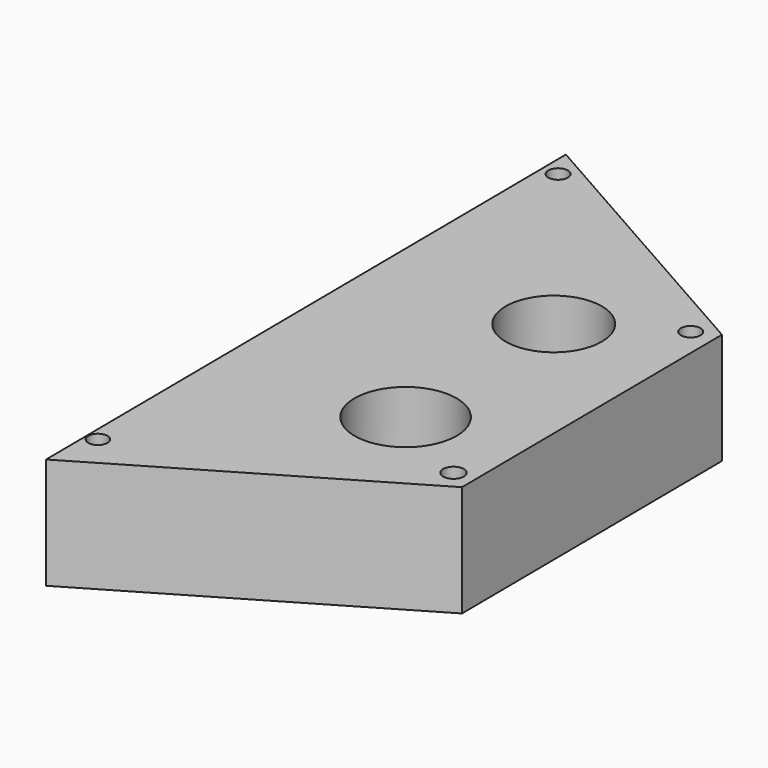
from build123d import *

# Parameters (mm, degrees)
F0_R     = 1.096214
F0_R_2   = 5.824912
F0_R_3   = 1.180333
F0_R_4   = 1.117938
F0_R_5   = 5.484301
F1_DEPTH = 12.7


with BuildPart() as f1:
    # F0 (on Top) → F1 (new body)
    with BuildSketch(Plane.XY):
        Polygon((-7.145739, 28.330129), (-39.747888, 46.809014), (-39.152107, -28.138449), (-6.847849, -9.143603), align=None)
        with Locations((-37.967294, -22.222633)):
            Circle(F0_R, mode=Mode.SUBTRACT)
        with Locations((-19.233698, -1.718403)):
            Circle(F0_R_2, mode=Mode.SUBTRACT)
        with Locations((-9.175166, -7.444786)):
            Circle(F0_R_3, mode=Mode.SUBTRACT)
        with Locations((-37.937455, 43.433934)):
            Circle(F0_R_4, mode=Mode.SUBTRACT)
        with Locations((-20.150922, 20.580299)):
            Circle(F0_R_5, mode=Mode.SUBTRACT)
        with Locations((-9.675507, 27.038466)):
            Circle(F0_R_4, mode=Mode.SUBTRACT)
    extrude(amount=F1_DEPTH)


solid = f1.part
